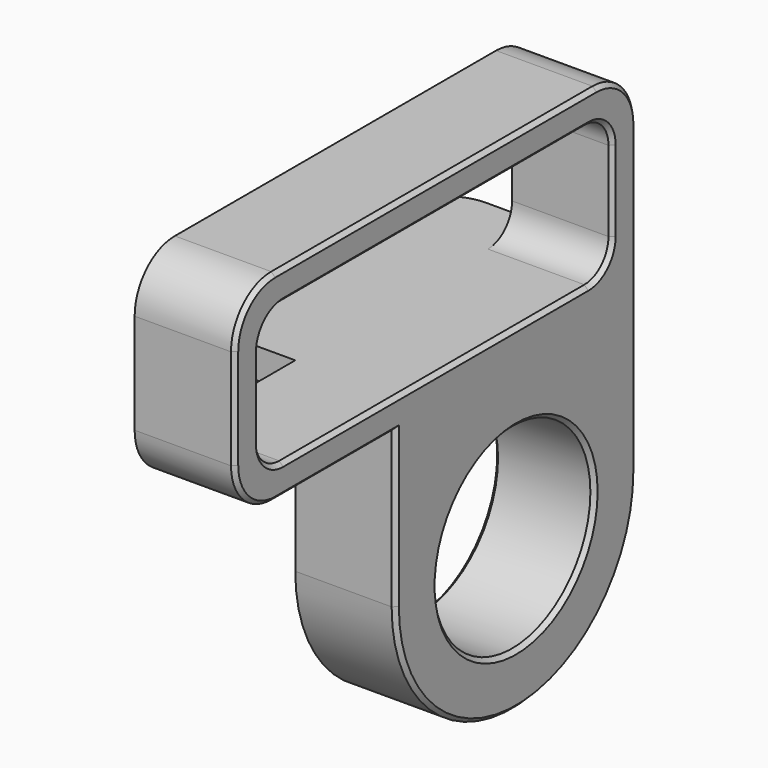
from build123d import *

# Parameters (mm, degrees)
SKETCH008_R     = 9.75
SKETCH008_W     = 44
SKETCH008_H     = 14
PAD003_DEPTH    = 10
FILLET_R        = 3
FILLET001_R     = 5
SKETCH009_W     = 30
SKETCH009_H     = 3
PAD004_DEPTH    = 10
FILLET002_R     = 5
CHAMFER001_SIZE = 0.4


with BuildPart() as part:
    # Sketch008 → Pad003 (new body)
    with BuildSketch(Plane.YZ):
        with BuildLine():
            ThreePointArc((-15, 15), (0, 0), (15, 15))
            Line((15, 50.5), (15, 15))
            Line((-35, 50.5), (15, 50.5))
            Line((-35, 30.5), (-35, 50.5))
            Line((-15, 30.5), (-35, 30.5))
            Line((-15, 15), (-15, 30.5))
        make_face()
        with Locations((0, 15)):
            Circle(SKETCH008_R, mode=Mode.SUBTRACT)
        with Locations((-10, 40.5)):
            Rectangle(SKETCH008_W, SKETCH008_H, mode=Mode.SUBTRACT)
    extrude(amount=-PAD003_DEPTH)

    # Fillet
    fillet_edges = [part.edges().sort_by_distance(p)[0] for p in [
        (-5, -32, 47.5),
        (-5, 12, 47.5),
        (-5, 12, 33.5),
        (-5, -32, 33.5),
    ]]
    fillet(fillet_edges, radius=FILLET_R)

    # Fillet001
    fillet001_edges = [part.edges().sort_by_distance(p)[0] for p in [
        (-5, 15, 50.5),
        (-5, -35, 50.5),
        (-5, -35, 30.5),
    ]]
    fillet(fillet001_edges, radius=FILLET001_R)

    # Sketch009 (on Face20 of Fillet001) → Pad004 (join)
    with BuildSketch(Plane(origin=(-10, 0, 0), x_dir=(0, 1, 0), z_dir=(-1, 0, 0))):
        with Locations((0, -32)):
            Rectangle(SKETCH009_W, SKETCH009_H)
    extrude(amount=PAD004_DEPTH)

    # Fillet002
    fillet002_edges = [part.edges().sort_by_distance(p)[0] for p in [
        (-20, 15, 32),
        (-20, -15, 32),
    ]]
    fillet(fillet002_edges, radius=FILLET002_R)

    # Chamfer001
    chamfer001_edges = [part.edges().sort_by_distance(p)[0] for p in [
        (0, 15, 30.25),
        (0, 13.535534, 49.035534),
        (0, 0, 0),
        (0, -10, 50.5),
        (0, -15, 22.75),
        (0, -33.535534, 49.035534),
        (0, -22.5, 30.5),
        (0, -35, 40.5),
        (0, -33.535534, 31.964466),
        (0, -10, 47.5),
        (0, -31.12132, 46.62132),
        (0, 11.12132, 46.62132),
        (0, -32, 40.5),
        (0, 12, 40.5),
        (0, -31.12132, 34.37868),
        (0, 11.12132, 34.37868),
        (0, -10, 33.5),
        (0, -9.75, 15),
        (-10, -9.75, 15),
    ]]
    chamfer(chamfer001_edges, length=CHAMFER001_SIZE)


with BuildPart() as part_1:
    # Body001 placement: moved
    add(part.part.moved(Location((82, 0, 0))))


solid = part_1.part
